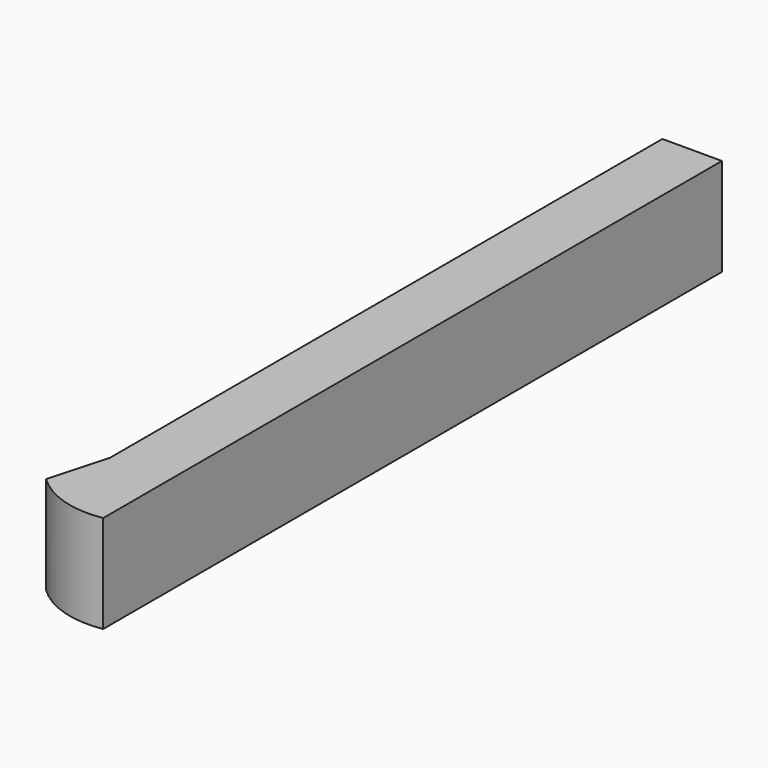
from build123d import *

# Parameters (mm, degrees)
F0_W     = 15.477344
F0_H     = 72.370944
F1_DEPTH = 25.4


with BuildPart() as f1:
    # F0 (on Top) → F1 (new body)
    with BuildSketch(Plane.XY):
        with BuildLine():
            Line((-15.477344, -142.19746), (-15.477344, -130.952388))
            Line((-15.477344, -130.952388), (-19.745878, -146.344457))
            ThreePointArc((-19.745878, -146.344457), (-10.60441, -151.765249), (0, -152.470872))
            Line((0, -152.470872), (0, -142.19746))
            Line((0, -142.19746), (-15.477344, -142.19746))
        make_face()
        Polygon((0, -23.784393), (-15.477344, -23.784393), (-15.477344, -130.952388), (-15.477344, -142.19746), (0, -142.19746), align=None)
        with Locations((-7.738672, 12.401079)):
            Rectangle(F0_W, F0_H)
    extrude(amount=F1_DEPTH)


solid = f1.part
